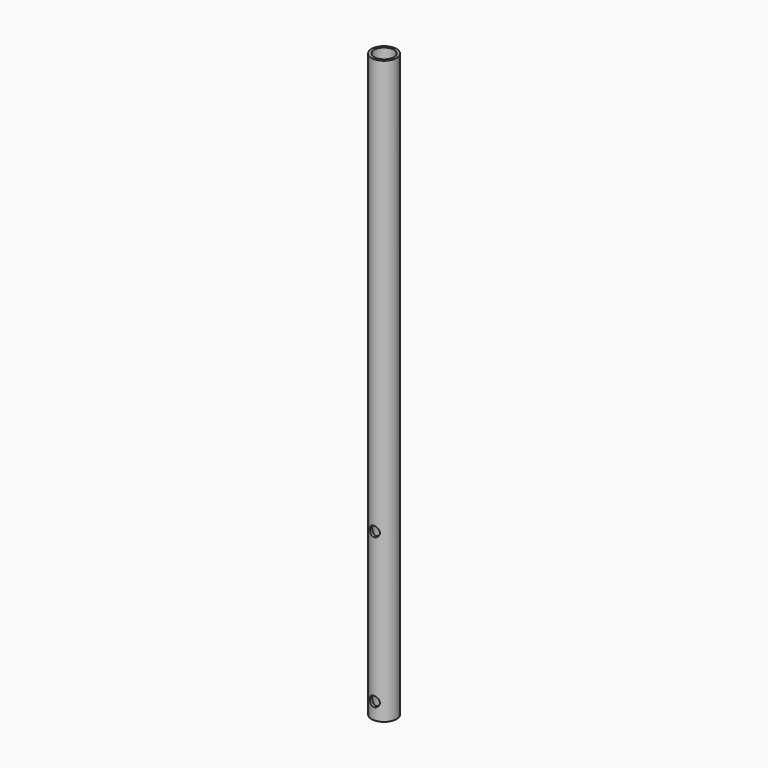
from build123d import *

# Parameters (mm, degrees)
F0_R     = 7.5
F0_R_2   = 6
F1_DEPTH = 350
F2_R     = 3
F3_DEPTH = 12.5


with BuildPart() as f1:
    # F0 (on Top) → F1 (new body)
    with BuildSketch(Plane.XY):
        Circle(F0_R)
        Circle(F0_R_2, mode=Mode.SUBTRACT)
    extrude(amount=F1_DEPTH)

    # F2 (on Front) → F3 (cut, symmetric)
    with BuildSketch(Plane.XZ):
        with Locations((0, 100)):
            Circle(F2_R)
        with Locations((0, 10)):
            Circle(F2_R)
    extrude(amount=F3_DEPTH, both=True, mode=Mode.SUBTRACT)


solid = f1.part
